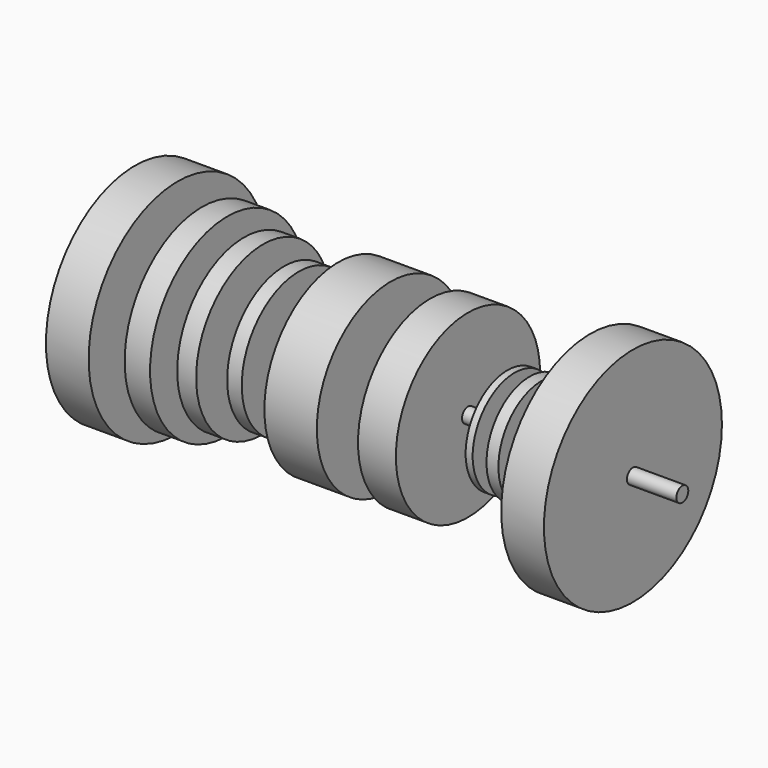
from build123d import *

# Parameters (mm, degrees)
F0_R     = 12.5
F1_DEPTH = 510
F2_W     = 71.5121626854
F2_H     = 186.2277984619
F2_W_2   = 42.5452291965
F2_H_2   = 161.7869436741
F2_W_3   = 31.6825956106
F2_H_3   = 140.0617212057
F2_W_4   = 24.440869689
F2_H_4   = 119.2417219281
F2_W_5   = 87.8060813993
F2_H_5   = 154.5452028513
F2_W_6   = 63.3652210236
F2_H_6   = 150.9243249893
F2_W_7   = 11.7678269744
F2_H_7   = 87.5591114163
F2_W_8   = 19.9147760868
F2_H_8   = 90.2747660875
F2_W_9   = 18.1043446064
F2_H_9   = 86.6538956761


with BuildPart() as f1:
    # F0 (on Right) → F1 (new body, symmetric)
    with BuildSketch(Plane.YZ):
        Circle(F0_R)
    extrude(amount=F1_DEPTH, both=True)

    # F2 (on Top) → F3 (revolve)
    with BuildSketch(Plane.XY):
        with Locations((391.5624916553, 93.113899231)):
            Rectangle(F2_W, F2_H)
        with Locations((-370.6304728985, 93.113899231)):
            Rectangle(F2_W, F2_H)
        with Locations((-272.8670090437, 80.893471837)):
            Rectangle(F2_W_2, F2_H_2)
        with Locations((-207.6913639903, 70.0308606029)):
            Rectangle(F2_W_3, F2_H_3)
        with Locations((-144.3261578679, 59.6208609641)):
            Rectangle(F2_W_4, F2_H_4)
        with Locations((-22.121806629, 77.2726014256)):
            Rectangle(F2_W_5, F2_H_5)
        with Locations((119.5446997881, 75.4621624947)):
            Rectangle(F2_W_6, F2_H_6)
        with Locations((223.1920994818, 43.7795557082)):
            Rectangle(F2_W_7, F2_H_7)
        with Locations((264.3794864416, 45.1373830438)):
            Rectangle(F2_W_8, F2_H_8)
        with Locations((306.0194700956, 43.3269478381)):
            Rectangle(F2_W_9, F2_H_9)
    revolve(axis=Axis((10.4660093784, 0, 0), (1, 0, 0)))


solid = f1.part
